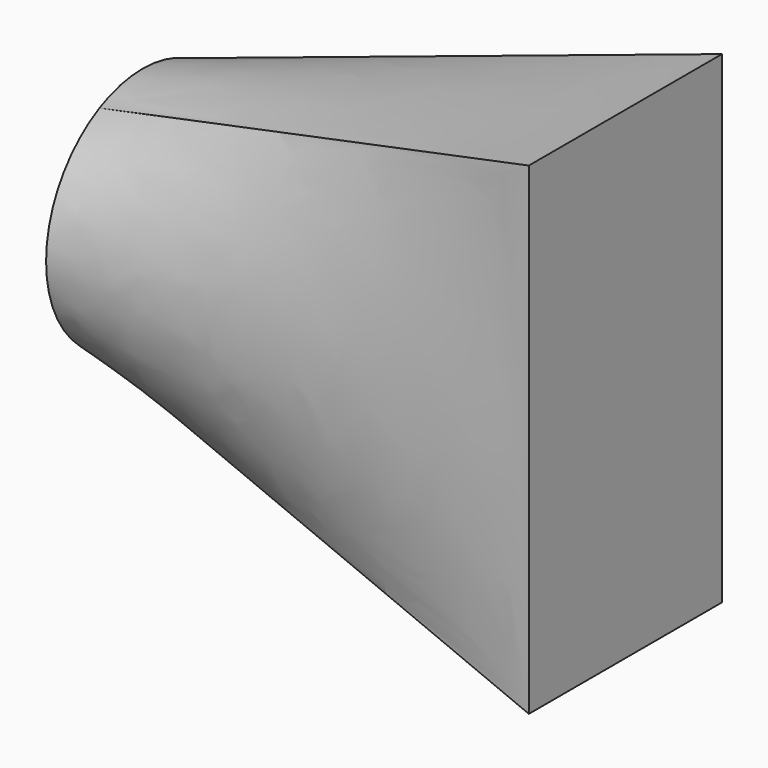
from build123d import *

# Parameters (mm, degrees)
F2_W = 20
F2_H = 40


with BuildPart() as f3:
    # F0 (on Right) → F3 section 0
    with BuildSketch(Plane.YZ):
        with BuildLine():
            ThreePointArc((4.472136, -8.944272), (10, 0), (4.472136, 8.944272))
            ThreePointArc((4.472136, 8.944272), (0, 10), (-4.472136, 8.944272))
            ThreePointArc((-4.472136, 8.944272), (-10, 0), (-4.472136, -8.944272))
            ThreePointArc((-4.472136, -8.944272), (0, -10), (4.472136, -8.944272))
        make_face()
    # F2 (on offset) → F3 section 1
    with BuildSketch(Plane.YZ.offset(40)):
        Rectangle(F2_W, F2_H)
    loft()


solid = f3.part
